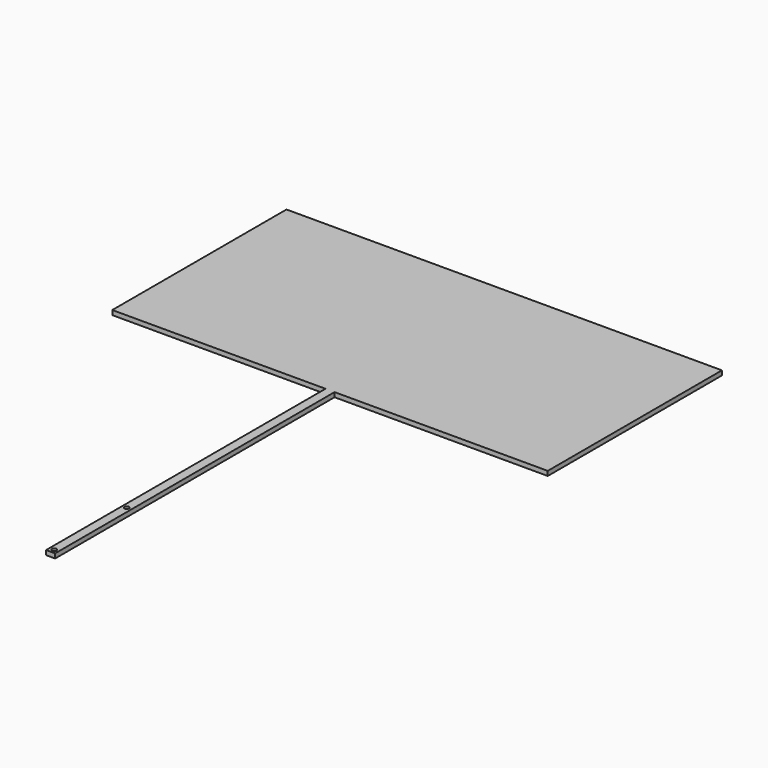
from build123d import *

# Parameters (mm, degrees)
F0_W     = 50.8
F0_H     = 1955.8
F0_R     = 12.7
F1_DEPTH = 25.4


with BuildPart() as f1:
    # F0 (on Top) → F1 (new body)
    with BuildSketch(Plane.XY):
        Polygon((87.955825, 1180.574484), (-2350.444175, 1180.574484), (-2350.444175, -38.625516), (-1156.644175, -38.625516), (-1105.844175, -38.625516), (87.955825, -38.625516), align=None)
        with Locations((-1131.244175, -1016.525516)):
            Rectangle(F0_W, F0_H)
        with Locations((-1131.244175, -1969.025516)):
            Circle(F0_R, mode=Mode.SUBTRACT)
        with Locations((-1131.244175, -1461.025516)):
            Circle(F0_R, mode=Mode.SUBTRACT)
    extrude(amount=F1_DEPTH)


solid = f1.part
